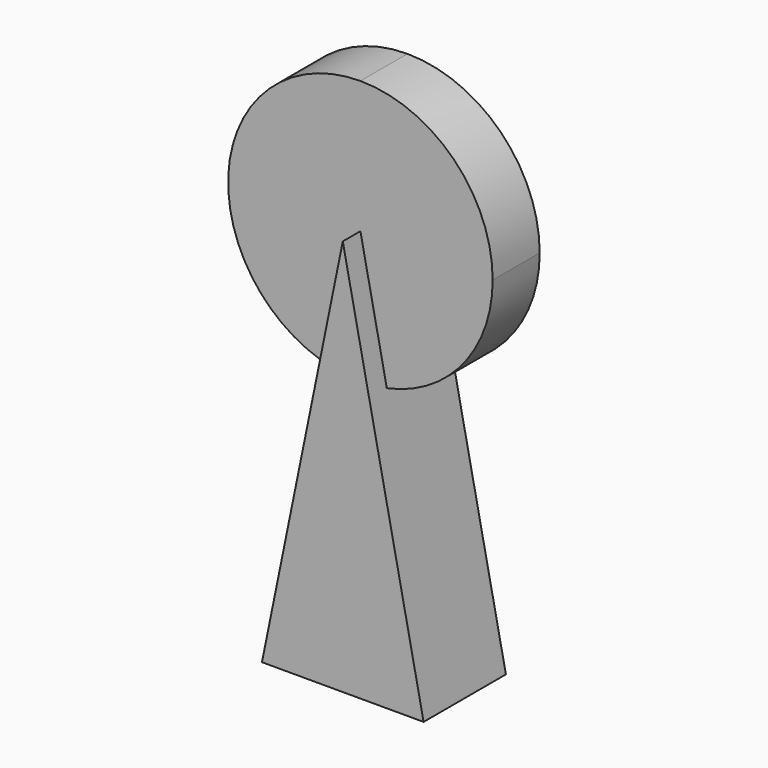
from build123d import *

# Parameters (mm, degrees)
F1_DEPTH = 2
F3_DEPTH = 3.5


with BuildPart() as f1:
    # F0 (on Front) → F1 (new body, symmetric)
    with BuildSketch(Plane.XZ):
        with BuildLine():
            Line((0, 18), (0, 36))
            ThreePointArc((0, 36), (-9, 27), (0, 18))
        make_face()
        with BuildLine():
            ThreePointArc((0, 18), (6.363961, 20.636039), (9, 27))
            ThreePointArc((9, 27), (6.363961, 33.363961), (0, 36))
            Line((0, 36), (0, 18))
        make_face()
    extrude(amount=F1_DEPTH, both=True)

    # F2 (on Front) → F3 (join, symmetric)
    with BuildSketch(Plane.XZ):
        Polygon((5.5, 0), (0, 27), (-5.5, 0), align=None)
    extrude(amount=F3_DEPTH, both=True)

    # F4: F1 across plane


with BuildPart() as f1_1:
    add(f1.part)
    add(f1.part.mirror(Plane.XZ))


solid = f1_1.part
